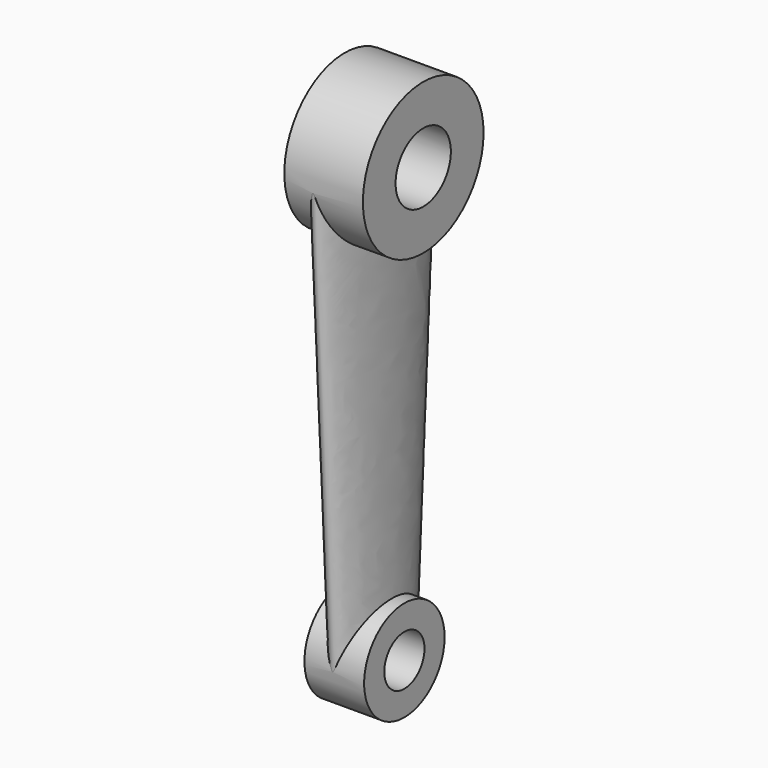
from build123d import *

# Parameters (mm, degrees)
F0_R      = 16
F0_R_2    = 8
F1_DEPTH  = 19
F0_R_3    = 24
F0_R_4    = 11
F2_DEPTH  = 25
F4_R      = 11
F5_DEPTH  = 25
F6_R      = 11
F10_DEPTH = 25.0010001
F11_R     = 8
F12_DEPTH = 19.0010001


with BuildPart() as f1:
    # F0 (on Right) → F1 (new body)
    with BuildSketch(Plane.YZ):
        Circle(F0_R)
        Circle(F0_R_2, mode=Mode.SUBTRACT)
        Circle(F0_R_2)
    extrude(amount=F1_DEPTH)



with BuildPart() as f2:
    # F0 (on Right) → F2 (new body)
    with BuildSketch(Plane.YZ):
        with Locations((0, 140)):
            Circle(F0_R_3)
        with Locations((0, 140)):
            Circle(F0_R_4, mode=Mode.SUBTRACT)
    extrude(amount=F2_DEPTH)


with BuildPart() as f5:
    # F4 (on face) → F5 (new body)
    with BuildSketch(Plane.YZ.offset(25)):
        with Locations((0, 140)):
            Circle(F4_R)
    extrude(amount=-F5_DEPTH)


with BuildPart() as f1_1:
    add(f1.part)

    add(f2.part)  # F9 merges F2

    add(f5.part)  # F9 merges F5
    # F8 (on plane+point) → F9 section 0
    with BuildSketch(Plane.XY.offset(140)):
        with BuildLine():
            add(Edge.make_bspline(
                [(9, -24), (19.3923048454, -24), (14.1961524227, 12), (9, 48), (3.8038475773, 12), (-1.3923048454, -24), (9, -24)],
                knots=[0, 0, 0, 2.0943951024, 2.0943951024, 4.1887902048, 4.1887902048, 6.2831853072, 6.2831853072, 6.2831853072], degree=2, weights=[1, 0.5, 1, 0.5, 1, 0.5, 1]))
        make_face()
    # F3 (on Top) → F9 section 1
    with BuildSketch(Plane.XY):
        with BuildLine():
            add(Edge.make_bspline(
                [(9, -16), (19.3923048454, -16), (14.1961524227, 8), (9, 32), (3.8038475773, 8), (-1.3923048454, -16), (9, -16)],
                knots=[0, 0, 0, 2.0943951024, 2.0943951024, 4.1887902048, 4.1887902048, 6.2831853072, 6.2831853072, 6.2831853072], degree=2, weights=[1, 0.5, 1, 0.5, 1, 0.5, 1]))
        make_face()
    loft()

    # F6 (on face) → F10 (cut, through all)
    with BuildSketch(Plane.YZ.offset(25)):
        with Locations((0, 140)):
            Circle(F6_R)
    extrude(amount=-F10_DEPTH, mode=Mode.SUBTRACT)

    # F11 (on face) → F12 (cut, through all)
    with BuildSketch(Plane.YZ.offset(19)):
        Circle(F11_R)
    extrude(amount=-F12_DEPTH, mode=Mode.SUBTRACT)


solid = f1_1.part
